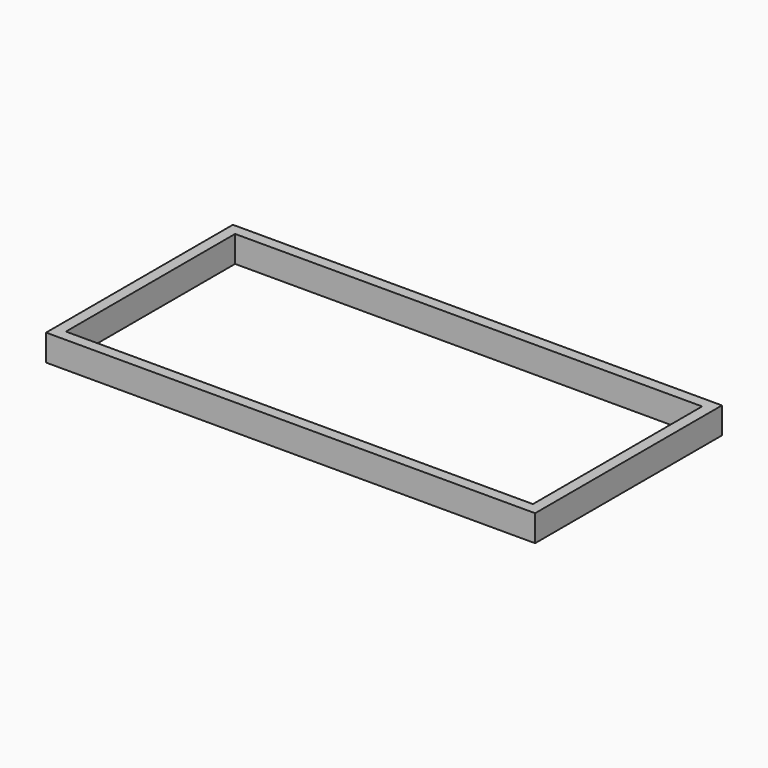
from build123d import *

# Parameters (mm, degrees)
BOX008_W     = 2.5
BOX008_H     = 53
BOX008_DEPTH = 6
BOX007_W     = 111
BOX007_H     = 2.5
BOX007_DEPTH = 6
BOX006_W     = 111
BOX006_H     = 2.5
BOX006_DEPTH = 6
BOX009_W     = 2.5
BOX009_H     = 53
BOX009_DEPTH = 6


with BuildPart() as cube008:
    # Box008 → Box008 (new body)
    with BuildSketch(Plane(origin=(-60, 0, 0), x_dir=(1, 0, 0), z_dir=(0, 0, 1))):
        with Locations((1.25, 26.5)):
            Rectangle(BOX008_W, BOX008_H)
    extrude(amount=BOX008_DEPTH)


with BuildPart() as cube007:
    # Box007 → Box007 (new body)
    with BuildSketch(Plane(origin=(-60, 0, 0), x_dir=(1, 0, 0), z_dir=(0, 0, 1))):
        with Locations((55.5, 1.25)):
            Rectangle(BOX007_W, BOX007_H)
    extrude(amount=BOX007_DEPTH)


with BuildPart() as cube006:
    # Box006 → Box006 (new body)
    with BuildSketch(Plane(origin=(-60, 50.5, 0), x_dir=(1, 0, 0), z_dir=(0, 0, 1))):
        with Locations((55.5, 1.25)):
            Rectangle(BOX006_W, BOX006_H)
    extrude(amount=BOX006_DEPTH)


with BuildPart() as fusion003:
    # Box009 → Box009 (new body)
    with BuildSketch(Plane(origin=(48.5, 0, 0), x_dir=(1, 0, 0), z_dir=(0, 0, 1))):
        with Locations((1.25, 26.5)):
            Rectangle(BOX009_W, BOX009_H)
    extrude(amount=BOX009_DEPTH)

    # Fusion003: union Cube008, Cube007, Cube006
    add(cube008.part)
    add(cube007.part)
    add(cube006.part)


with BuildPart() as fusion003_1:
    # Fusion003 placement: moved
    add(fusion003.part.moved(Location((0, 0, 22))))


solid = fusion003_1.part
